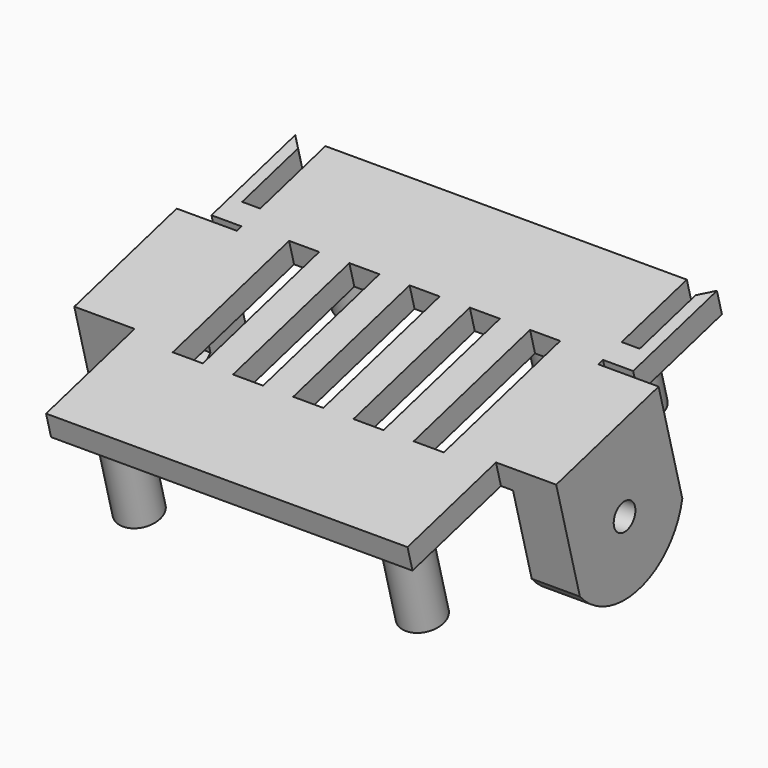
from build123d import *

# Parameters (mm, degrees)
SKETCH_W             = 60
SKETCH_H             = 60
PAD_DEPTH            = 4
SKETCH001_R          = 3.5
SKETCH001_R_2        = 1.25
PAD001_DEPTH         = 8
SKETCH009_W          = 5
SKETCH009_H          = 25
POCKET008_DEPTH      = 4
PAD006_DEPTH         = 4
SKETCH015_W          = 22
SKETCH015_H          = 4
PAD007_DEPTH         = 2
SKETCH003_R          = 2.25
PAD008_DEPTH         = 8
SKETCH014_R          = 3.5
SKETCH014_R_2        = 1.25
PAD009_DEPTH         = 15
POCKET_DEPTH         = 4
BODY_PLACEMENT_ANGLE = 195


with BuildPart() as part:
    # Sketch → Pad (new body)
    with BuildSketch(Plane.XY):
        Rectangle(SKETCH_W, SKETCH_H)
    extrude(amount=PAD_DEPTH)

    # Sketch001 (on Face6 of Pad) → Pad001 (join)
    with BuildSketch(Plane.XY.offset(4)):
        with Locations((-17, 17)):
            Circle(SKETCH001_R)
        with Locations((-17, 17)):
            Circle(SKETCH001_R_2, mode=Mode.SUBTRACT)
        with Locations((-17, -17)):
            Circle(SKETCH001_R)
        with Locations((-17, -17)):
            Circle(SKETCH001_R_2, mode=Mode.SUBTRACT)
        with Locations((17, -17)):
            Circle(SKETCH001_R)
        with Locations((17, -17)):
            Circle(SKETCH001_R_2, mode=Mode.SUBTRACT)
        with Locations((17, 17)):
            Circle(SKETCH001_R)
        with Locations((17, 17)):
            Circle(SKETCH001_R_2, mode=Mode.SUBTRACT)
    extrude(amount=PAD001_DEPTH)

    # Sketch009 → Pocket008 (cut)
    with BuildSketch(Plane(origin=(0, 0, 0), x_dir=(1, 0, 0), z_dir=(0, 0, -1))):
        Rectangle(SKETCH009_W, SKETCH009_H)
        with Locations((10, 0)):
            Rectangle(SKETCH009_W, SKETCH009_H)
        with Locations((20, 0)):
            Rectangle(SKETCH009_W, SKETCH009_H)
        with Locations((-10, 0)):
            Rectangle(SKETCH009_W, SKETCH009_H)
        with Locations((-20, 0)):
            Rectangle(SKETCH009_W, SKETCH009_H)
    extrude(amount=-POCKET008_DEPTH, mode=Mode.SUBTRACT)

    # Sketch012 (on Face5 of Pocket008) → Pad006 (join)
    with BuildSketch(Plane.XY.offset(4)):
        Polygon((-30, -12), (-35, -12), (-35, -30), (-33, -28), (-33, -16), (-30, -16), align=None)
    pad006 = extrude(amount=-PAD006_DEPTH)

    # Mirrored005: Pad006 across Sketch012 V_Axis
    add(pad006.mirror(Plane(origin=(0, 0, 4), x_dir=(0, 0, 1), z_dir=(1, 0, 0))))

    # Sketch015 (on Face4 of Pad) → Pad007 (join)
    with BuildSketch(Plane(origin=(-30, 0, 0), x_dir=(0, -1, 0), z_dir=(-1, 0, 0))):
        with Locations((0, 2)):
            Rectangle(SKETCH015_W, SKETCH015_H)
    pad007 = extrude(amount=PAD007_DEPTH)

    # Sketch003 (on Face42 of Pad007) → Pad008 (join)
    with BuildSketch(Plane(origin=(-32, 0, 0), x_dir=(0, -1, 0), z_dir=(-1, 0, 0))):
        with BuildLine():
            ThreePointArc((11, 19), (0, 25.938622), (-11, 19))
            Line((-11, 19), (-11, 0))
            Line((11, 0), (-11, 0))
            Line((11, 19), (11, 0))
        make_face()
        with Locations((0, 13.75)):
            Circle(SKETCH003_R, mode=Mode.SUBTRACT)
    pad008 = extrude(amount=PAD008_DEPTH)

    # Sketch014 → Pad009 (join)
    with BuildSketch(Plane.XY.offset(4)):
        with Locations((-23.5, 23.5)):
            Circle(SKETCH014_R)
        with Locations((-23.5, 23.5)):
            Circle(SKETCH014_R_2, mode=Mode.SUBTRACT)
        with Locations((23.5, 23.5)):
            Circle(SKETCH014_R)
        with Locations((23.5, 23.5)):
            Circle(SKETCH014_R_2, mode=Mode.SUBTRACT)
        with Locations((23.5, -23.5)):
            Circle(SKETCH014_R)
        with Locations((23.5, -23.5)):
            Circle(SKETCH014_R_2, mode=Mode.SUBTRACT)
        with Locations((-23.5, -23.5)):
            Circle(SKETCH014_R)
        with Locations((-23.5, -23.5)):
            Circle(SKETCH014_R_2, mode=Mode.SUBTRACT)
    extrude(amount=PAD009_DEPTH)

    # Sketch016 (on Face58 of Pad009) → Pocket (cut)
    with BuildSketch(Plane.YZ.offset(-32)):
        Polygon((-3.637307, 15.85), (-3.637307, 11.65), (0, 9.55), (3.637307, 11.65), (3.637307, 15.85), (0, 17.95), align=None)
    pocket = extrude(amount=-POCKET_DEPTH, mode=Mode.SUBTRACT)

    # Mirrored: Pad007, Pad008 across YZ
    add(pad007.mirror(Plane.YZ))
    add(pad008.mirror(Plane.YZ))

    # Mirrored006: Pocket across YZ
    add(pocket.mirror(Plane.YZ), mode=Mode.SUBTRACT)


with BuildPart() as part_1:
    # Body placement: moved
    add(part.part.moved(Location((0, 44.339027, 22.284409))).rotate(Axis((0, 44.339027, 22.284409), (1, 0, 0)), BODY_PLACEMENT_ANGLE))


solid = part_1.part
